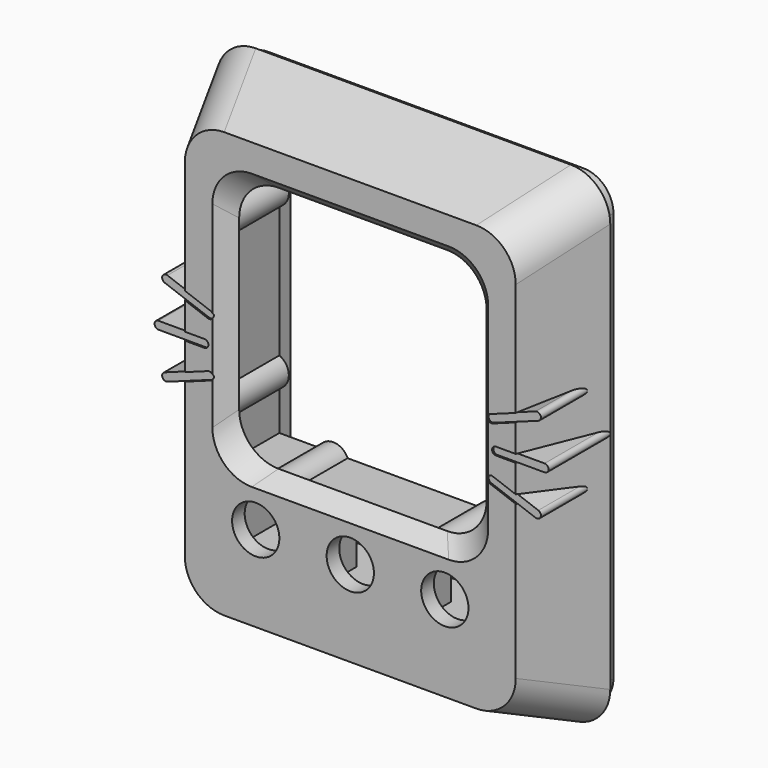
from build123d import *

# Parameters (mm, degrees)
BOX004_W        = 62
BOX004_H        = 12
BOX004_DEPTH    = 17
BOX003_W        = 60
BOX003_H        = 15
BOX003_DEPTH    = 1
PAD009_DEPTH    = 10
POCKET_DEPTH    = 8.001
BOX001_W        = 30
BOX001_H        = 6
BOX001_DEPTH    = 5
SKETCH012_R     = 1.8
HOLE001_DEPTH   = 6
POCKET001_DEPTH = 3
PAD002_DEPTH    = 2
SKETCH053_W     = 3
SKETCH053_H     = 42
PAD020_DEPTH    = 3.4
SKETCH021_R     = 3
POCKET006_DEPTH = 13.401
SKETCH029_W     = 8
SKETCH029_H     = 8
POCKET007_DEPTH = 11.401
BOX005_W        = 16
BOX005_H        = 8
BOX005_DEPTH    = 4
PAD005_DEPTH    = 10


with BuildPart() as cube:
    # Box004 → Box004 (new body)
    with BuildSketch(Plane(origin=(-31, -9.8, -12), x_dir=(1, 0, 0), z_dir=(0, 0, 1))):
        with Locations((31, 6)):
            Rectangle(BOX004_W, BOX004_H)
    extrude(amount=BOX004_DEPTH)


with BuildPart() as cut001:
    # Box003 → Box003 (join)
    with BuildSketch(Plane(origin=(-30, 0, -11), x_dir=(1, 0, 0), z_dir=(0, -1, 0))):
        with Locations((30, 7.5)):
            Rectangle(BOX003_W, BOX003_H)
    extrude(amount=BOX003_DEPTH)

    # Sketch035 → Pad009 (join)
    with BuildSketch(Plane.XZ.offset(10)):
        with BuildLine():
            ThreePointArc((-23.364072, 2.521967), (-24.004928, 2.223131), (-23.706092, 1.582275))
            Line((-23.706092, 1.582275), (-18.067936, -0.469846))
            ThreePointArc((-18.067936, -0.469846), (-17.427074, -0.171012), (-17.725916, 0.469846))
            Line((-23.364072, 2.521967), (-17.725916, 0.469846))
        make_face()
        with BuildLine():
            ThreePointArc((-24.5, -2.920201), (-25, -3.420201), (-24.5, -3.920201))
            Line((-24.5, -3.920201), (-18.5, -3.920201))
            ThreePointArc((-18.5, -3.920201), (-18, -3.420201), (-18.5, -2.920201))
            Line((-24.5, -2.920201), (-18.5, -2.920201))
        make_face()
        with BuildLine():
            ThreePointArc((-23.706092, -8.422678), (-24.004928, -9.063534), (-23.364072, -9.36237))
            Line((-17.725916, -7.310249), (-23.364072, -9.36237))
            ThreePointArc((-17.725916, -7.310249), (-17.427079, -6.669393), (-18.067936, -6.370557))
            Line((-23.706092, -8.422678), (-18.067936, -6.370557))
        make_face()
    pad009 = extrude(amount=-PAD009_DEPTH)

    # Mirrored005: Pad009 across Sketch035 V_Axis
    add(pad009.mirror(Plane(origin=(0, -10, 0), x_dir=(0, -1, 0), z_dir=(1, 0, 0))))

    # Cut: cut Cube
    add(cube.part, mode=Mode.SUBTRACT)


with BuildPart() as main:
    # Sketch002 → AdditiveLoft section 0
    with BuildSketch(Plane.XZ.offset(10)):
        with BuildLine():
            Line((-16, 21), (16, 21))
            ThreePointArc((21, 16), (19.535534, 19.535534), (16, 21))
            Line((21, 16), (21, -28))
            ThreePointArc((16, -33), (19.535534, -31.535534), (21, -28))
            Line((16, -33), (-16, -33))
            ThreePointArc((-21, -28), (-19.535534, -31.535534), (-16, -33))
            Line((-21, -28), (-21, 16))
            ThreePointArc((-16, 21), (-19.535534, 19.535534), (-21, 16))
        make_face()
    # Sketch003 → AdditiveLoft section 1
    with BuildSketch(Plane.XZ):
        with BuildLine():
            Line((-20, 25), (20, 25))
            ThreePointArc((25, 20), (23.535534, 23.535534), (20, 25))
            Line((25, 20), (25, -32))
            ThreePointArc((20, -37), (23.535534, -35.535534), (25, -32))
            Line((20, -37), (-20, -37))
            ThreePointArc((-25, -32), (-23.535534, -35.535534), (-20, -37))
            Line((-25, -32), (-25, 20))
            ThreePointArc((-20, 25), (-23.535534, 23.535534), (-25, 20))
        make_face()
    loft()

    # Sketch006 → Pocket (cut, through all)
    with BuildSketch(Plane.XZ.offset(8)):
        with BuildLine():
            Line((-17, -17), (-17, -12))
            ThreePointArc((-17, -12), (-15.8, -10.16697), (-17, -8.333939))
            Line((-17, -8.333939), (-17, 8.333939))
            ThreePointArc((-17, 8.333939), (-15.8, 10.16697), (-17, 12))
            Line((-17, 12), (-17, 14.25))
            ThreePointArc((-14.25, 17), (-16.194544, 16.194544), (-17, 14.25))
            Line((-12, 17), (-14.25, 17))
            ThreePointArc((-12, 17), (-10.16697, 15.8), (-8.333939, 17))
            Line((-8.333939, 17), (8.333939, 17))
            ThreePointArc((8.333939, 17), (10.16697, 15.8), (12, 17))
            Line((12, 17), (14.25, 17))
            ThreePointArc((17, 14.25), (16.194544, 16.194544), (14.25, 17))
            Line((17, 12), (17, 14.25))
            ThreePointArc((17, 12), (15.8, 10.16697), (17, 8.333939))
            Line((17, 8.333939), (17, -8.333939))
            ThreePointArc((17, -8.333939), (15.8, -10.16697), (17, -12))
            Line((17, -12), (17, -17))
            Line((17, -17), (12, -17))
            ThreePointArc((12, -17), (10.16697, -15.8), (8.333939, -17))
            Line((8.333939, -17), (-8.333939, -17))
            ThreePointArc((-8.333939, -17), (-10.16697, -15.8), (-12, -17))
            Line((-12, -17), (-17, -17))
        make_face()
    extrude(amount=-POCKET_DEPTH, mode=Mode.SUBTRACT)

    # Sketch007 → SubtractiveLoft section 0
    with BuildSketch(Plane.XZ.offset(8)):
        with BuildLine():
            Line((-10.7, 15.7), (10.7, 15.7))
            ThreePointArc((15.7, 10.7), (14.235534, 14.235534), (10.7, 15.7))
            Line((15.7, 10.7), (15.7, -10.7))
            ThreePointArc((10.7, -15.7), (14.235534, -14.235534), (15.7, -10.7))
            Line((10.7, -15.7), (-10.7, -15.7))
            ThreePointArc((-15.7, -10.7), (-14.235534, -14.235534), (-10.7, -15.7))
            Line((-15.7, -10.7), (-15.7, 10.7))
            ThreePointArc((-10.7, 15.7), (-14.235534, 14.235534), (-15.7, 10.7))
        make_face()
    # Sketch008 → SubtractiveLoft section 1
    with BuildSketch(Plane.XZ.offset(10)):
        with BuildLine():
            Line((-12.5, 17.5), (12.5, 17.5))
            ThreePointArc((17.5, 12.5), (16.035534, 16.035534), (12.5, 17.5))
            Line((17.5, 12.5), (17.5, -12.5))
            ThreePointArc((12.5, -17.5), (16.035534, -16.035534), (17.5, -12.5))
            Line((12.5, -17.5), (-12.5, -17.5))
            ThreePointArc((-17.5, -12.5), (-16.035534, -16.035534), (-12.5, -17.5))
            Line((-17.5, -12.5), (-17.5, 12.5))
            ThreePointArc((-12.5, 17.5), (-16.035534, 16.035534), (-17.5, 12.5))
        make_face()
    loft(mode=Mode.SUBTRACT)

    # Box001 → Box001 (cut)
    with BuildSketch(Plane(origin=(-15, 0, -33), x_dir=(1, 0, 0), z_dir=(0, -1, 0))):
        with Locations((15, 3)):
            Rectangle(BOX001_W, BOX001_H)
    extrude(amount=BOX001_DEPTH, mode=Mode.SUBTRACT)

    # Sketch012 → Hole001 (cut)
    with BuildSketch(Plane.XZ):
        with Locations((18, 18)):
            Circle(SKETCH012_R)
        with Locations((18, -30)):
            Circle(SKETCH012_R)
        with Locations((-18, -30)):
            Circle(SKETCH012_R)
        with Locations((-18, 18)):
            Circle(SKETCH012_R)
    extrude(amount=HOLE001_DEPTH, mode=Mode.SUBTRACT)

    # Sketch013 → Pocket001 (cut)
    with BuildSketch(Plane.XZ.offset(2)):
        Polygon((21.206646, 17.140782), (20.347428, 20.347428), (17.140782, 21.206646), (14.793354, 18.859218), (11.964927, 16.030791), (16.030791, 11.964927), (18.859218, 14.793354), align=None)
        Polygon((16.340118, -32.875), (19.659882, -32.875), (21.319764, -30), (19.659882, -27.125), (16.340118, -27.125), (0, -27.125), (0, -32.875), align=None)
    pocket001 = extrude(amount=POCKET001_DEPTH, mode=Mode.SUBTRACT)

    # Mirrored002: Pocket001 across Sketch013 V_Axis
    add(pocket001.mirror(Plane(origin=(0, -2, 0), x_dir=(0, -1, 0), z_dir=(1, 0, 0))), mode=Mode.SUBTRACT)

    # Sketch017 → Pad002 (join)
    with BuildSketch(Plane.XZ):
        with BuildLine():
            Line((-20, 23.8), (20, 23.8))
            ThreePointArc((23.8, 20), (22.687006, 22.687006), (20, 23.8))
            Line((23.8, 20), (23.8, -32))
            ThreePointArc((20, -35.8), (22.687006, -34.687006), (23.8, -32))
            Line((20, -35.8), (-20, -35.8))
            ThreePointArc((-23.8, -32), (-22.687006, -34.687006), (-20, -35.8))
            Line((-23.8, -32), (-23.8, 20))
            ThreePointArc((-20, 23.8), (-22.687006, 22.687006), (-23.8, 20))
        make_face()
        with BuildLine():
            Line((-20, 21.3), (20, 21.3))
            ThreePointArc((21.3, 20), (20.919239, 20.919239), (20, 21.3))
            Line((21.3, 20), (21.3, -32))
            ThreePointArc((20, -33.3), (20.919239, -32.919239), (21.3, -32))
            Line((20, -33.3), (-20, -33.3))
            ThreePointArc((-21.3, -32), (-20.919239, -32.919239), (-20, -33.3))
            Line((-21.3, -32), (-21.3, 20))
            ThreePointArc((-20, 21.3), (-20.919239, 20.919239), (-21.3, 20))
        make_face(mode=Mode.SUBTRACT)
    extrude(amount=-PAD002_DEPTH)

    # Sketch053 → Pad020 (join)
    with BuildSketch(Plane.XZ):
        with Locations((19.8, -6)):
            Rectangle(SKETCH053_W, SKETCH053_H)
        with Locations((-19.8, -6)):
            Rectangle(SKETCH053_W, SKETCH053_H)
    extrude(amount=-PAD020_DEPTH)

    # Sketch021 → Pocket006 (cut, through all)
    with BuildSketch(Plane.XZ.offset(10)):
        with Locations((0, -22.1)):
            Circle(SKETCH021_R)
        with Locations((-12, -22.1)):
            Circle(SKETCH021_R)
        with Locations((12, -22.1)):
            Circle(SKETCH021_R)
    extrude(amount=-POCKET006_DEPTH, mode=Mode.SUBTRACT)

    # Sketch029 → Pocket007 (cut, through all)
    with BuildSketch(Plane.XZ.offset(8)):
        with Locations((0, -22.1)):
            Rectangle(SKETCH029_W, SKETCH029_H)
        with Locations((12, -22.1)):
            Rectangle(SKETCH029_W, SKETCH029_H)
        with Locations((-12, -22.1)):
            Rectangle(SKETCH029_W, SKETCH029_H)
    extrude(amount=-POCKET007_DEPTH, mode=Mode.SUBTRACT)

    # Box005 → Box005 (cut)
    with BuildSketch(Plane(origin=(-8, 0, -26.1), x_dir=(1, 0, 0), z_dir=(0, -1, 0))):
        with Locations((8, 4)):
            Rectangle(BOX005_W, BOX005_H)
    extrude(amount=BOX005_DEPTH, mode=Mode.SUBTRACT)

    # Sketch024 → Pad005 (join)
    with BuildSketch(Plane.XZ.offset(10)):
        with BuildLine():
            ThreePointArc((-23.364072, 2.521967), (-24.004928, 2.223131), (-23.706092, 1.582275))
            Line((-23.706092, 1.582275), (-18.067936, -0.469846))
            ThreePointArc((-18.067936, -0.469846), (-17.427074, -0.171012), (-17.725916, 0.469846))
            Line((-23.364072, 2.521967), (-17.725916, 0.469846))
        make_face()
        with BuildLine():
            ThreePointArc((-24.5, -2.920201), (-25, -3.420201), (-24.5, -3.920201))
            Line((-24.5, -3.920201), (-18.5, -3.920201))
            ThreePointArc((-18.5, -3.920201), (-18, -3.420201), (-18.5, -2.920201))
            Line((-24.5, -2.920201), (-18.5, -2.920201))
        make_face()
        with BuildLine():
            ThreePointArc((-23.706092, -8.422678), (-24.004928, -9.063534), (-23.364072, -9.36237))
            Line((-17.725916, -7.310249), (-23.364072, -9.36237))
            ThreePointArc((-17.725916, -7.310249), (-17.427079, -6.669393), (-18.067936, -6.370557))
            Line((-23.706092, -8.422678), (-18.067936, -6.370557))
        make_face()
    pad005 = extrude(amount=-PAD005_DEPTH)

    # Mirrored003: Pad005 across Sketch024 V_Axis
    add(pad005.mirror(Plane(origin=(0, -10, 0), x_dir=(0, -1, 0), z_dir=(1, 0, 0))))

    # Cut001: cut Cut001
    add(cut001.part, mode=Mode.SUBTRACT)


solid = main.part
